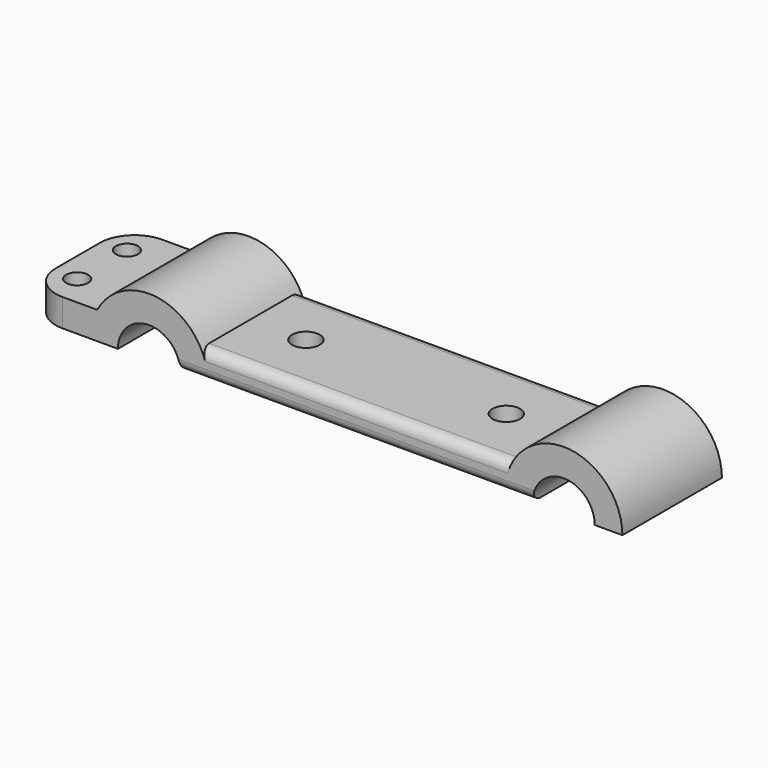
from build123d import *

# Parameters (mm, degrees)
F1_DEPTH = 18
F2_R     = 5
F3_R     = 1.5
F4_R     = 1.6
F5_DEPTH = 4
F4_R_2   = 2
F6_DEPTH = 4


with BuildPart() as f1:
    # F0 (on Front) → F1 (new body)
    with BuildSketch(Plane.XZ):
        with BuildLine():
            ThreePointArc((25.5, 0), (30, 4.5), (34.5, 0))
            Line((34.5, 0), (38.5, 0))
            ThreePointArc((38.5, 0), (32.061553, 8.246211), (22.5, 4))
            Line((22.5, 4), (-22.5, 4))
            ThreePointArc((-22.5, 4), (-30, 8.5), (-37.5, 4))
            Line((-37.5, 4), (-44.5, 4))
            Line((-44.5, 4), (-47.5, 4))
            Line((-47.5, 4), (-47.5, 0))
            Line((-47.5, 0), (-38.5, 0))
            Line((-38.5, 0), (-34.5, 0))
            ThreePointArc((-34.5, 0), (-30, 4.5), (-25.5, 0))
            Line((-25.5, 0), (25.5, 0))
        make_face()
    extrude(amount=F1_DEPTH)

    # F2
    f2_edges = [f1.edges().sort_by_distance(p)[0] for p in [
        (-47.5, -18, 2),
        (-47.5, 0, 2),
    ]]
    fillet(f2_edges, radius=F2_R)

    # F3
    f3_edges = [f1.edges().sort_by_distance(p)[0] for p in [
        (0, -18, 4),
        (0, -18, 0),
        (0, 0, 4),
        (0, 0, 0),
    ]]
    fillet(f3_edges, radius=F3_R)

    # F4 (on face) → F5 (cut, through all)
    with BuildSketch(Plane.XY.offset(4)):
        with Locations((-44, -4.5)):
            Circle(F4_R)
        with Locations((-44, -13.5)):
            Circle(F4_R)
    extrude(amount=-F5_DEPTH, mode=Mode.SUBTRACT)

    # F4 (on face) → F6 (cut, through all)
    with BuildSketch(Plane.XY.offset(4)):
        with Locations((14.5, -9)):
            Circle(F4_R_2)
        with Locations((-14.5, -9)):
            Circle(F4_R_2)
    extrude(amount=-F6_DEPTH, mode=Mode.SUBTRACT)


solid = f1.part
